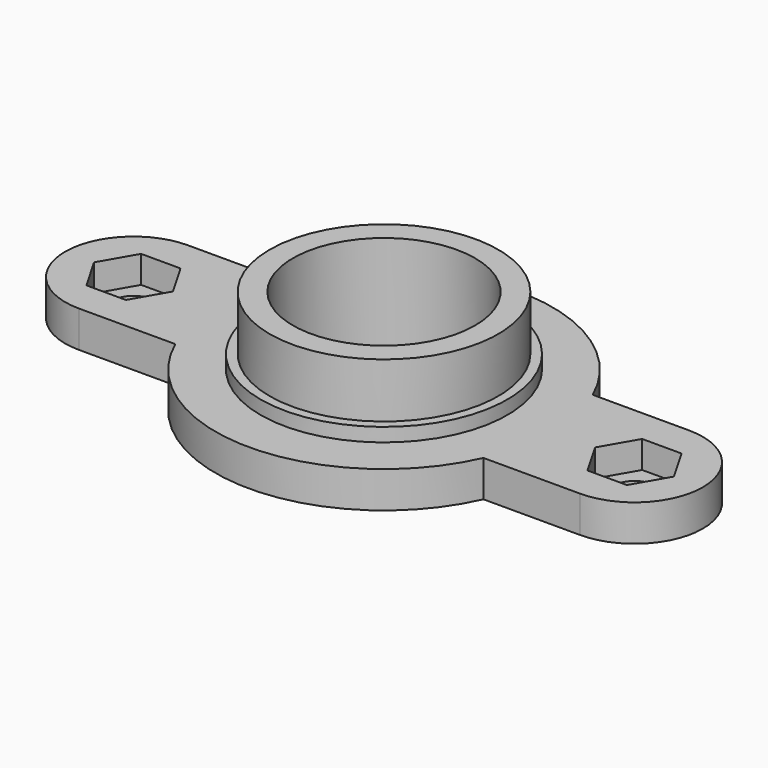
from build123d import *

# Parameters (mm, degrees)
PAD_DEPTH       = 4
SKETCH001_R     = 2.25
HOLE_DEPTH      = 4.001
POCKET001_DEPTH = 3
SKETCH002_R     = 10
POCKET_DEPTH    = 11.501


with BuildPart() as part:
    # Sketch → Pad (new body)
    with BuildSketch(Plane.XY):
        with BuildLine():
            ThreePointArc((-27.5, 7.5), (-35, 0), (-27.5, -7.5))
            Line((-16.911535, -7.5), (-27.5, -7.5))
            ThreePointArc((-16.911535, -7.5), (0, -18.5), (16.911535, -7.5))
            Line((27.5, -7.5), (16.911535, -7.5))
            ThreePointArc((27.5, -7.5), (35, 0), (27.5, 7.5))
            Line((27.5, 7.5), (16.911535, 7.5))
            ThreePointArc((16.911535, 7.5), (0, 18.5), (-16.911535, 7.5))
            Line((-27.5, 7.5), (-16.911535, 7.5))
        make_face()
    extrude(amount=PAD_DEPTH)

    # Sketch001 (on DatumPlane) → Hole (cut, through all)
    with BuildSketch(Plane.XY.offset(4)):
        with Locations((-27.5, 0)):
            Circle(SKETCH001_R)
        with Locations((27.5, 0)):
            Circle(SKETCH001_R)
    extrude(amount=-HOLE_DEPTH, mode=Mode.SUBTRACT)

    # Sketch003 → Revolution (revolve)
    with BuildSketch(Plane.XZ):
        Polygon((0, 4), (-13.55, 4), (-13.55, 5.5), (-12.55, 5.5), (-12.55, 11.5), (0, 11.5), align=None)
    revolve(axis=Axis((0, 0, 0), (0, 0, 1)))

    # Sketch004 (on DatumPlane) → Pocket001 (cut)
    with BuildSketch(Plane.XY.offset(4)):
        Polygon((-23.169873, 0), (-25.334936, 3.75), (-29.665064, 3.75), (-31.830127, 0), (-29.665064, -3.75), (-25.334936, -3.75), align=None)
        Polygon((31.830127, 0), (29.665064, 3.75), (25.334936, 3.75), (23.169873, 0), (25.334936, -3.75), (29.665064, -3.75), align=None)
    extrude(amount=-POCKET001_DEPTH, mode=Mode.SUBTRACT)

    # Sketch002 → Pocket (cut, through all)
    with BuildSketch(Plane.XY):
        Circle(SKETCH002_R)
    extrude(amount=POCKET_DEPTH, mode=Mode.SUBTRACT)


solid = part.part
